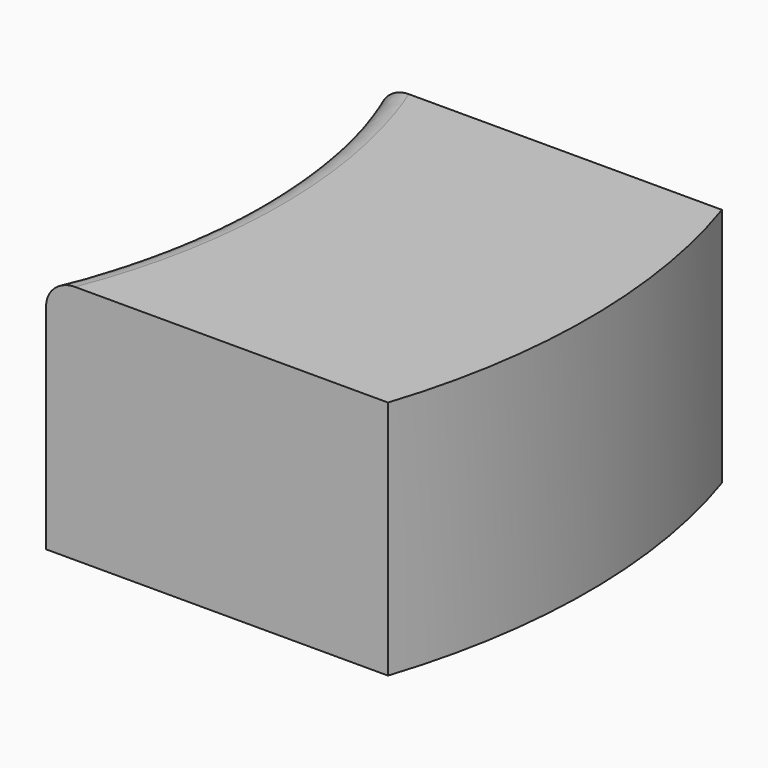
from build123d import *

# Parameters (mm, degrees)
F0_R     = 6.35
F1_DEPTH = 2.286
F2_R     = 0.254
F3_W     = 8.3312
F3_H     = 3.96875
F4_DEPTH = 2.286


with BuildPart() as f1:
    # F0 (on Top) → F1 (new body)
    with BuildSketch(Plane.XY):
        Circle(F0_R)
        with BuildLine():
            add(Edge.make_bspline(
                [(0, 4.111625), (-5.499261, 4.111625), (-2.749631, -2.055812), (0, -8.22325), (2.749631, -2.055813), (5.499261, 4.111625), (0, 4.111625)],
                knots=[0, 0, 0, 2.094395, 2.094395, 4.18879, 4.18879, 6.283185, 6.283185, 6.283185], degree=2, weights=[1, 0.5, 1, 0.5, 1, 0.5, 1]))
        make_face(mode=Mode.SUBTRACT)
    extrude(amount=F1_DEPTH)

    # F2
    f2_edges = [f1.edges().sort_by_distance(p)[0] for p in [
        (0, -4.111625, 2.286),
    ]]
    fillet(f2_edges, radius=F2_R)

    # F3 (on face) → F4 (intersect)
    with BuildSketch(Plane.XY.offset(2.286)):
        with Locations((2.837246, 0)):
            Rectangle(F3_W, F3_H)
    extrude(amount=-F4_DEPTH, mode=Mode.INTERSECT)


solid = f1.part
